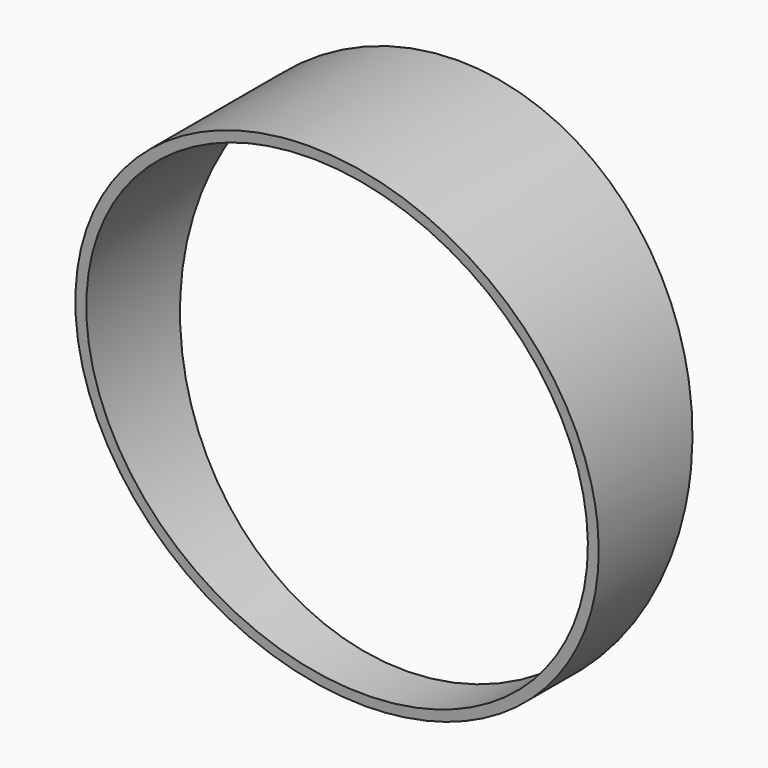
from build123d import *

# Parameters (mm, degrees)
F0_R     = 38.1
F0_R_2   = 36.5125
F1_DEPTH = 13.589
F3_DEPTH = 63.5


with BuildPart() as f1:
    # F0 (on Front) → F1 (new body, symmetric)
    with BuildSketch(Plane.XZ):
        with Locations((0, 38.1)):
            Circle(F0_R)
        with Locations((0, 38.1)):
            Circle(F0_R_2, mode=Mode.SUBTRACT)
    extrude(amount=F1_DEPTH, both=True)

    # F2 (on Right) → F3 (cut, symmetric)
    with BuildSketch(Plane.YZ):
        Polygon((3.5570796838, 0), (-3.5570796838, 0), (-13.589, 76.2), (-13.589, -15.0681453376), (13.589, -15.0681453376), (13.589, 76.2), align=None)
    extrude(amount=F3_DEPTH, both=True, mode=Mode.SUBTRACT)


solid = f1.part
